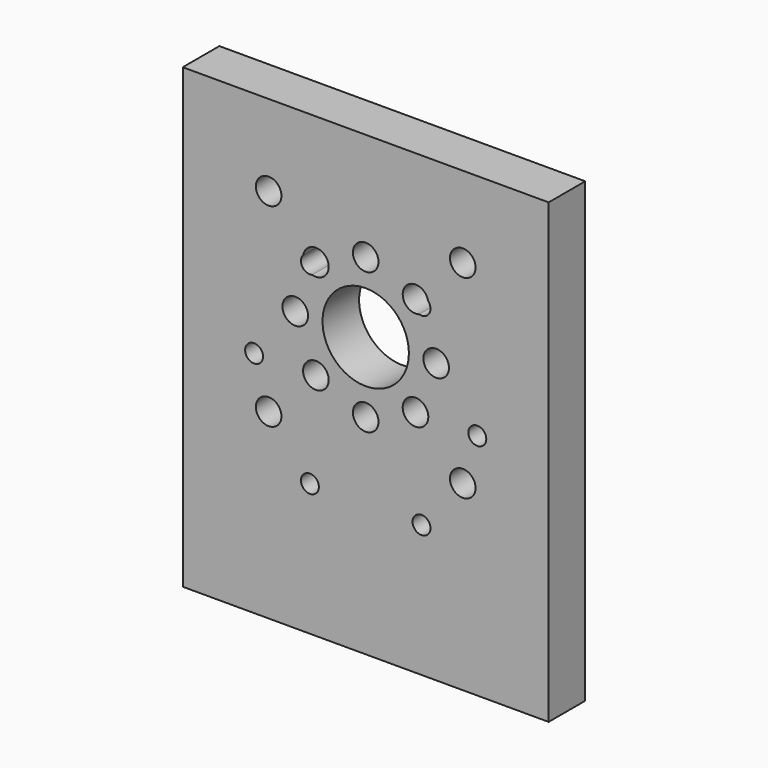
from build123d import *

# Parameters (mm, degrees)
F1_W     = 50.8
F1_H     = 63.5
F1_R     = 1.2446
F1_R_2   = 5.9944
F2_DEPTH = 6.35
F3_R     = 1.778
F4_DEPTH = 25.4


with BuildPart() as f2:
    # F1 (on face) → F2 (new body)
    with BuildSketch(Plane.XZ):
        Rectangle(F1_W, F1_H)
        with Locations((-7.747, -13.418198)):
            Circle(F1_R, mode=Mode.SUBTRACT)
        with Locations((7.747, -13.418198)):
            Circle(F1_R, mode=Mode.SUBTRACT)
        with Locations((-15.494, 0)):
            Circle(F1_R, mode=Mode.SUBTRACT)
        with Locations((0, 7.0104)):
            Circle(F1_R_2, mode=Mode.SUBTRACT)
        with Locations((-7.747, 13.418198)):
            Circle(F1_R, mode=Mode.SUBTRACT)
        with Locations((7.747, 13.418198)):
            Circle(F1_R, mode=Mode.SUBTRACT)
        with Locations((15.494, 0)):
            Circle(F1_R, mode=Mode.SUBTRACT)
    extrude(amount=F2_DEPTH)

    # F3 (on face) → F4 (cut)
    with BuildSketch(Plane.XZ.offset(6.35)):
        with Locations((-9.779, 7.0104)):
            Circle(F3_R)
        with Locations((-6.914797, 0.095603)):
            Circle(F3_R)
        with Locations((0, -2.7686)):
            Circle(F3_R)
        with Locations((6.914797, 0.095603)):
            Circle(F3_R)
        with Locations((9.779, 7.0104)):
            Circle(F3_R)
        with Locations((6.914797, 13.925197)):
            Circle(F3_R)
        with Locations((0, 16.7894)):
            Circle(F3_R)
        with Locations((-6.914797, 13.925197)):
            Circle(F3_R)
        with Locations((-13.4747, 20.4851)):
            Circle(F3_R)
        with Locations((13.4747, 20.4851)):
            Circle(F3_R)
        with Locations((13.4747, -6.4643)):
            Circle(F3_R)
        with Locations((-13.4747, -6.4643)):
            Circle(F3_R)
    extrude(amount=-F4_DEPTH, mode=Mode.SUBTRACT)


solid = f2.part
